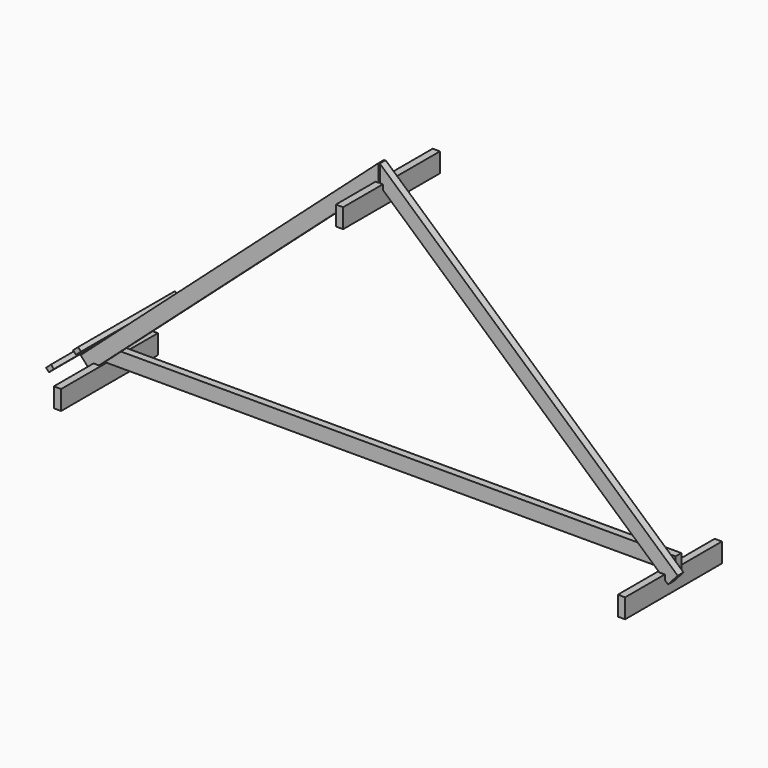
from build123d import *

# Parameters (mm, degrees)
F0_W     = 4800
F0_H     = 120
F1_DEPTH = 30
F2_W     = 60
F2_H     = 160
F3_DEPTH = 500
F5_DEPTH = 60
F7_DEPTH = 500


with BuildPart() as f1:
    # F0 (on Front) → F1 (new body, symmetric)
    with BuildSketch(Plane.XZ):
        with Locations((0, 60)):
            Rectangle(F0_W, F0_H)
    extrude(amount=F1_DEPTH, both=True)


with BuildPart() as f3:
    # F2 (on Front) → F3 (new body, symmetric)
    with BuildSketch(Plane.XZ):
        with Locations((-2330, -80)):
            Rectangle(F2_W, F2_H)
    extrude(amount=F3_DEPTH, both=True)


with BuildPart() as f3b:
    # F2 (on Front) → F3, piece 2 (new body, symmetric)
    with BuildSketch(Plane.XZ):
        with Locations((2330, -80)):
            Rectangle(F2_W, F2_H)
    extrude(amount=F3_DEPTH, both=True)


with BuildPart() as f3c:
    # F2 (on Front) → F3, piece 3 (new body, symmetric)
    with BuildSketch(Plane.XZ):
        with Locations((0, 2000)):
            Rectangle(F2_W, F2_H)
    extrude(amount=F3_DEPTH, both=True)


with BuildPart() as f5:
    # F4 (on face) → F5 (new body)
    with BuildSketch(Plane.XZ.offset(30)):
        Polygon((-30, 2080), (-5, 2080), (-5, 2223.1766985294), (-2466.7817404663, 25.5346297869), (-2386.8674834211, -63.98470623), (-2360, -40), (-2360, 0), (-2315.1923076923, 0), (-30, 2040), align=None)
    extrude(amount=F5_DEPTH)

    # F6 (on face) → F7 (join, symmetric)
    with BuildSketch(Plane.XZ.offset(90)):
        Polygon((-2328.9634040489, 148.5655910523), (-2287.9337083745, 185.1929588646), (-2311.242033346, 211.3027652029), (-2352.2717290204, 174.6753973905), align=None)
        Polygon((-2128.473388978, 374.4610400035), (-2105.1650640065, 348.3512336652), (-2064.1353683321, 384.9786014776), (-2087.4436933036, 411.0884078159), align=None)
    extrude(amount=F7_DEPTH, both=True)


with BuildPart() as f5b:
    # F4 (on face) → F5, piece 2 (new body)
    with BuildSketch(Plane.XZ.offset(30)):
        Polygon((2360, 0), (2360, -40), (2386.8674834211, -63.98470623), (2466.7817404663, 25.5346297869), (5, 2223.1766985294), (5, 2080), (30, 2080), (30, 2040), (2315.1923076923, 0), align=None)
    extrude(amount=F5_DEPTH)


solid = Compound([f1.part, f3.part, f3b.part, f3c.part, f5.part, f5b.part])
